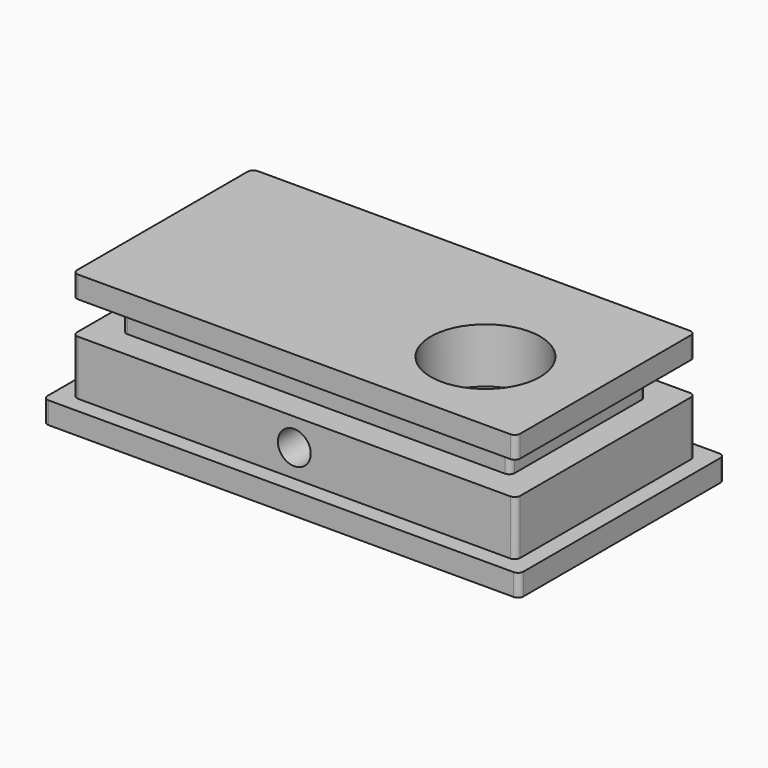
from build123d import *

# Parameters (mm, degrees)
F0_W      = 43.5
F0_H      = 23.5
F1_DEPTH  = 2
F2_W      = 40.5
F2_H      = 20.5
F3_DEPTH  = 5
F4_W      = 35.5
F4_H      = 15.5
F5_DEPTH  = 3
F6_W      = 40.5
F6_H      = 20.5
F7_DEPTH  = 2
F8_R      = 0.5
F9_R      = 2.5
F10_DEPTH = 12.001
F11_R     = 5
F12_DEPTH = 5
F13_R     = 1.5
F14_DEPTH = 25


with BuildPart() as f1:
    # F0 (on Top) → F1 (new body)
    with BuildSketch(Plane.XY):
        Rectangle(F0_W, F0_H)
    extrude(amount=F1_DEPTH)

    # F2 (on face) → F3 (join)
    with BuildSketch(Plane.XY.offset(2)):
        Rectangle(F2_W, F2_H)
    extrude(amount=F3_DEPTH)

    # F4 (on face) → F5 (join)
    with BuildSketch(Plane.XY.offset(7)):
        Rectangle(F4_W, F4_H)
    extrude(amount=F5_DEPTH)

    # F6 (on face) → F7 (join)
    with BuildSketch(Plane.XY.offset(10)):
        Rectangle(F6_W, F6_H)
    extrude(amount=F7_DEPTH)

    # F8
    f8_edges = [f1.edges().sort_by_distance(p)[0] for p in [
        (-20.25, 10.25, 4.5),
        (-17.75, 7.75, 8.5),
        (-20.25, 10.25, 11),
        (-20.25, -10.25, 4.5),
        (-17.75, -7.75, 8.5),
        (-20.25, -10.25, 11),
        (20.25, -10.25, 4.5),
        (17.75, -7.75, 8.5),
        (20.25, -10.25, 11),
        (20.25, 10.25, 4.5),
        (17.75, 7.75, 8.5),
        (20.25, 10.25, 11),
        (21.75, -11.75, 1),
        (21.75, 11.75, 1),
        (-21.75, -11.75, 1),
        (-21.75, 11.75, 1),
    ]]
    fillet(f8_edges, radius=F8_R)

    # F9 (on Top) → F10 (cut, through all)
    with BuildSketch(Plane.XY):
        with Locations((10.875, -2)):
            Circle(F9_R)
    extrude(amount=F10_DEPTH, mode=Mode.SUBTRACT)

    # F11 (on face) → F12 (cut, through all)
    with BuildSketch(Plane.XY.offset(12)):
        with Locations((10.875, -2)):
            Circle(F11_R)
    extrude(amount=-F12_DEPTH, mode=Mode.SUBTRACT)

    # F13 (on face) → F14 (cut)
    with BuildSketch(Plane.XZ.offset(10.25)):
        with Locations((0, 4.5)):
            Circle(F13_R)
    extrude(amount=-F14_DEPTH, mode=Mode.SUBTRACT)


solid = f1.part
